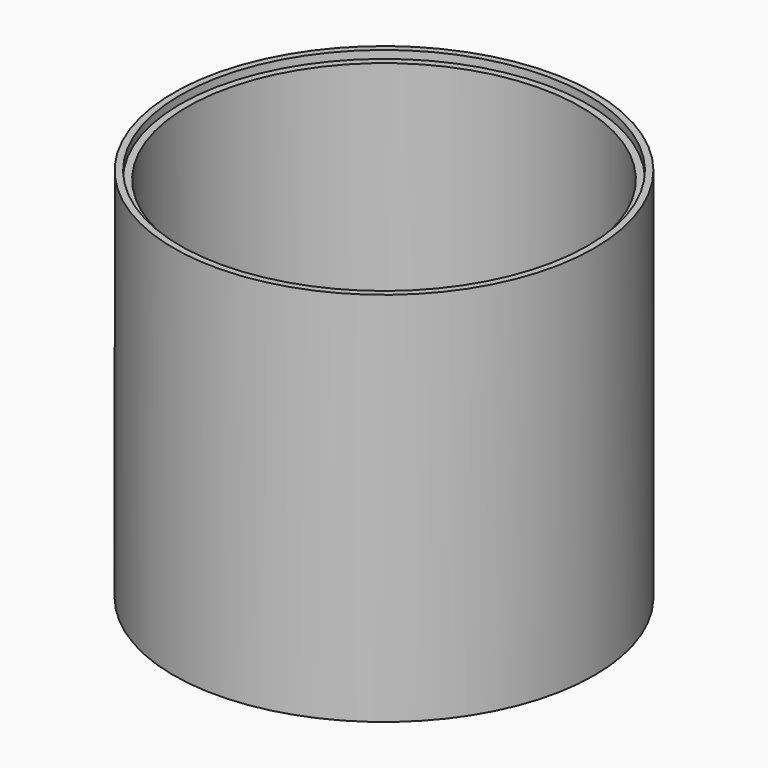
from build123d import *

# Parameters (mm, degrees)
F0_R     = 101.6
F0_R_2   = 98.425
F1_DEPTH = 181.61
F0_R_3   = 95
F2_DEPTH = 177.8
F4_DEPTH = 101.601


with BuildPart() as f1:
    # F0 (on Top) → F1 (new body)
    with BuildSketch(Plane.XY):
        Circle(F0_R)
        Circle(F0_R_2, mode=Mode.SUBTRACT)
    extrude(amount=F1_DEPTH)

    # F0 (on Top) → F2 (join)
    with BuildSketch(Plane.XY):
        Circle(F0_R_2)
        Circle(F0_R_3, mode=Mode.SUBTRACT)
    extrude(amount=F2_DEPTH)

    # F3 (on Front) → F4 (cut, through all)
    with BuildSketch(Plane.XZ):
        with BuildLine():
            ThreePointArc((0, -25.4), (17.9605122421, -17.9605122421), (25.4, 0))
            ThreePointArc((25.4, 0), (-17.9605122421, 17.9605122421), (0, -25.4))
        make_face()
    extrude(amount=-F4_DEPTH, mode=Mode.SUBTRACT)


solid = f1.part
